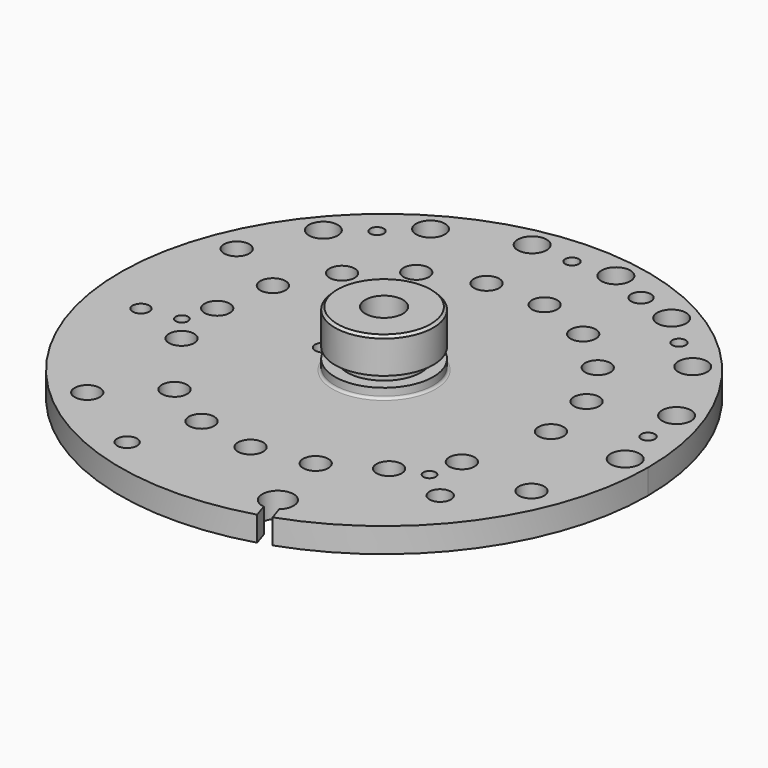
from build123d import *

# Parameters (mm, degrees)
F2_R      = 1.169
F2_R_2    = 1.0196666667
F2_R_3    = 1.0213333333
F2_R_4    = 0.55
F2_R_5    = 0.8
F2_R_6    = 0.869
F2_R_7    = 0.5
F2_R_8    = 0.675
F3_DEPTH  = 6.501
F4_R      = 1
F5_R      = 0.2
F6_SIZE   = 0.2
F8_DEPTH  = 0.5
F9_R      = 0.675
F10_DEPTH = 10.701
F11_R     = 0.92
F11_R_2   = 0.675
F12_DEPTH = 1.2
F13_SCALE = 3


with BuildPart() as f1:
    # F0 (on Front) → F1 (revolve)
    with BuildSketch(Plane.XZ):
        Polygon((3.25, 5.2), (3.25, 0), (6.5, 0), (6.5, 4.7), (21.3536666667, 4.7), (21.3536666667, 6.7), (3.9775, 6.7), (3.9775, 7.5), (3, 7.5), (3, 8.35), (3.9775, 8.35), (3.9775, 11.2), (1.5213333333, 11.2), (1.5213333333, 5.2), align=None)
    revolve(axis=Axis((0, 0, 5.6), (0, 0, 1)))

    # F2 (on face) → F3 (cut, through all)
    with BuildSketch(Plane(origin=(0, 0, 4.7), x_dir=(1, 0, 0), z_dir=(0, 0, -1))):
        with Locations((19.5, 0)):
            Circle(F2_R)
        with Locations((18.3240061053, -6.6693927949)):
            Circle(F2_R)
        with Locations((14.9378666408, -12.5343583889)):
            Circle(F2_R)
        with Locations((9.75, -16.8874953738)):
            Circle(F2_R)
        with Locations((3.3861394645, -19.2037511837)):
            Circle(F2_R)
        with Locations((-3.3861394645, -19.2037511837)):
            Circle(F2_R)
        with Locations((-9.75, -16.8874953738)):
            Circle(F2_R)
        with Locations((-14.9378666408, -12.5343583889)):
            Circle(F2_R)
        with Locations((-17.6164932368, -7.1175252749)):
            Circle(F2_R_2)
        with Locations((11.6913429511, 6.75)):
            Circle(F2_R_3)
        with Locations((8.6776327308, 10.3415999821)):
            Circle(F2_R_3)
        with Locations((12.6858503806, -4.6172719349)):
            Circle(F2_R_3)
        with Locations((13.5, 0)):
            Circle(F2_R_3)
        with Locations((10.3415999821, -8.6776327308)):
            Circle(F2_R_3)
        with Locations((6.75, -11.6913429511)):
            Circle(F2_R_3)
        with Locations((2.3442503985, -13.2949046657)):
            Circle(F2_R_3)
        with Locations((-2.3442503985, -13.2949046657)):
            Circle(F2_R_3)
        with Locations((-6.75, -11.6913429511)):
            Circle(F2_R_3)
        with Locations((-10.3415999821, -8.6776327308)):
            Circle(F2_R_3)
        with Locations((-12.6858503806, -4.6172719349)):
            Circle(F2_R_3)
        with Locations((-13.5, 0)):
            Circle(F2_R_3)
        with Locations((-12.6858503806, 4.6172719349)):
            Circle(F2_R_3)
        with Locations((-8.6776327308, 10.3415999821)):
            Circle(F2_R_3)
        with Locations((-4.6172719349, 12.6858503806)):
            Circle(F2_R_3)
        with Locations((0, 13.5)):
            Circle(F2_R_3)
        with Locations((4.6172719349, 12.6858503806)):
            Circle(F2_R_3)
        with Locations((18.7113473072, -3.2993153757)):
            Circle(F2_R_4)
        with Locations((12.212964584, -14.5548444193)):
            Circle(F2_R_4)
        with Locations((0, -19)):
            Circle(F2_R_4)
        with Locations((-12.212964584, -14.5548444193)):
            Circle(F2_R_4)
        with Locations((6.4983827232, -17.8541597949)):
            Circle(F2_R_5)
        with Locations((17.6164932368, 7.1175252749)):
            Circle(F2_R_2)
        with Locations((13.5, 11.2)):
            Circle(F2_R_6)
        with Locations((11.1842488695, 9.3846991014)):
            Circle(F2_R_7)
        with Locations((-6.4983827232, 17.8541597949)):
            Circle(F2_R_5)
        with Locations((-12.7134815208, 14.1197516841)):
            Circle(F2_R_2)
        with Locations((-17.2341356777, 3.0388431092)):
            Circle(F2_R_8)
        with Locations((-14.3341356777, 2.5274948651)):
            Circle(F2_R_7)
        with BuildLine():
            Line((6.1013408583, 20.4634483859), (5.7339118404, 19.3326181465))
            ThreePointArc((5.7339118404, 19.3326181465), (5.4788713103, 16.8622320339), (6.7245957116, 19.010725444))
            Line((6.7245957116, 19.010725444), (7.0920247294, 20.1415556834))
            ThreePointArc((7.0920247294, 20.1415556834), (6.5986458922, 20.3085438301), (6.1013408583, 20.4634483859))
        make_face()
    extrude(amount=-F3_DEPTH, mode=Mode.SUBTRACT)

    # F4
    f4_edges = [f1.edges().sort_by_distance(p)[0] for p in [
        (-6.5, 0, 4.7),
    ]]
    fillet(f4_edges, radius=F4_R)

    # F5
    f5_edges = [f1.edges().sort_by_distance(p)[0] for p in [
        (-3.9775, 0, 6.7),
    ]]
    fillet(f5_edges, radius=F5_R)

    # F6
    f6_edges = [f1.edges().sort_by_distance(p)[0] for p in [
        (-3.9775, 0, 11.2),
    ]]
    chamfer(f6_edges, length=F6_SIZE)

    # F7 (on face) → F8 (cut)
    with BuildSketch(Plane(origin=(0, 0, 0), x_dir=(1, 0, 0), z_dir=(0, 0, -1))):
        with BuildLine():
            ThreePointArc((-5.8803865992, 2.7696666667), (-6.5, 0), (-5.8803865992, -2.7696666667))
            Line((-5.8803865992, -2.7696666667), (-1.7004254043, -2.7696666667))
            ThreePointArc((-1.7004254043, -2.7696666667), (-3.25, 0), (-1.7004254043, 2.7696666667))
            Line((-1.7004254043, 2.7696666667), (-5.8803865992, 2.7696666667))
        make_face()
        with BuildLine():
            Line((1.7004254043, -2.7696666667), (5.8803865992, -2.7696666667))
            ThreePointArc((5.8803865992, -2.7696666667), (6.3432055341, -1.419064323), (6.5, 0))
            ThreePointArc((6.5, 0), (6.3432055341, 1.419064323), (5.8803865992, 2.7696666667))
            Line((5.8803865992, 2.7696666667), (1.7004254043, 2.7696666667))
            ThreePointArc((1.7004254043, 2.7696666667), (2.8362724273, 1.5868392225), (3.25, 0))
            ThreePointArc((3.25, 0), (2.8362724273, -1.5868392225), (1.7004254043, -2.7696666667))
        make_face()
    extrude(amount=-F8_DEPTH, mode=Mode.SUBTRACT)

    # F9 (on face) → F10 (cut, through all)
    with BuildSketch(Plane(origin=(0, 0, 0.5), x_dir=(1, 0, 0), z_dir=(0, 0, -1))):
        with Locations((-4.9, 0)):
            Circle(F9_R)
    extrude(amount=-F10_DEPTH, mode=Mode.SUBTRACT)

    # F11 (on face) → F12 (cut)
    with BuildSketch(Plane(origin=(0, 0, 0.5), x_dir=(1, 0, 0), z_dir=(0, 0, -1))):
        with Locations((-4.9, 0)):
            Circle(F11_R)
        with Locations((-4.9, 0)):
            Circle(F11_R_2, mode=Mode.SUBTRACT)
        with Locations((-4.9, 0)):
            Circle(F11_R_2)
    extrude(amount=-F12_DEPTH, mode=Mode.SUBTRACT)


with BuildPart() as f1_1:
    # F13: moved
    add(f1.part.scale(F13_SCALE))


solid = f1_1.part
